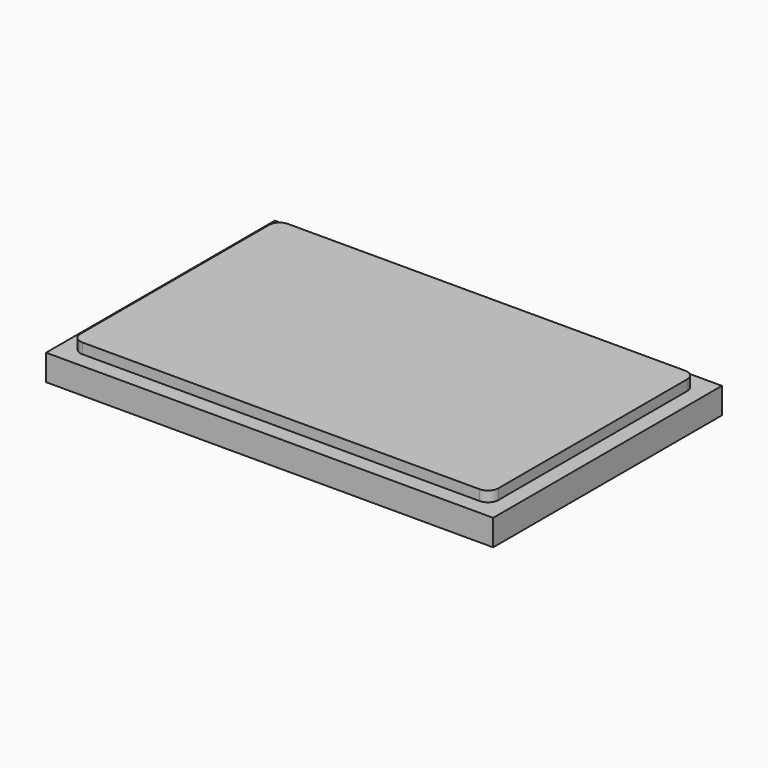
from build123d import *

# Parameters (mm, degrees)
F0_W     = 86
F0_H     = 55
F1_DEPTH = 5
F2_W     = 80.4
F2_H     = 49.4
F3_DEPTH = 2
F4_R     = 2


with BuildPart() as f1:
    # F0 (on Top) → F1 (new body)
    with BuildSketch(Plane.XY):
        Rectangle(F0_W, F0_H)
    extrude(amount=F1_DEPTH)

    # F2 (on face) → F3 (join)
    with BuildSketch(Plane.XY.offset(5)):
        with Locations((-0.2, 0.2)):
            Rectangle(F2_W, F2_H)
    extrude(amount=F3_DEPTH)

    # F4
    f4_edges = [f1.edges().sort_by_distance(p)[0] for p in [
        (-40.4, -24.5, 6),
        (-40.4, 24.9, 6),
        (40, -24.5, 6),
        (40, 24.9, 6),
    ]]
    fillet(f4_edges, radius=F4_R)


solid = f1.part
